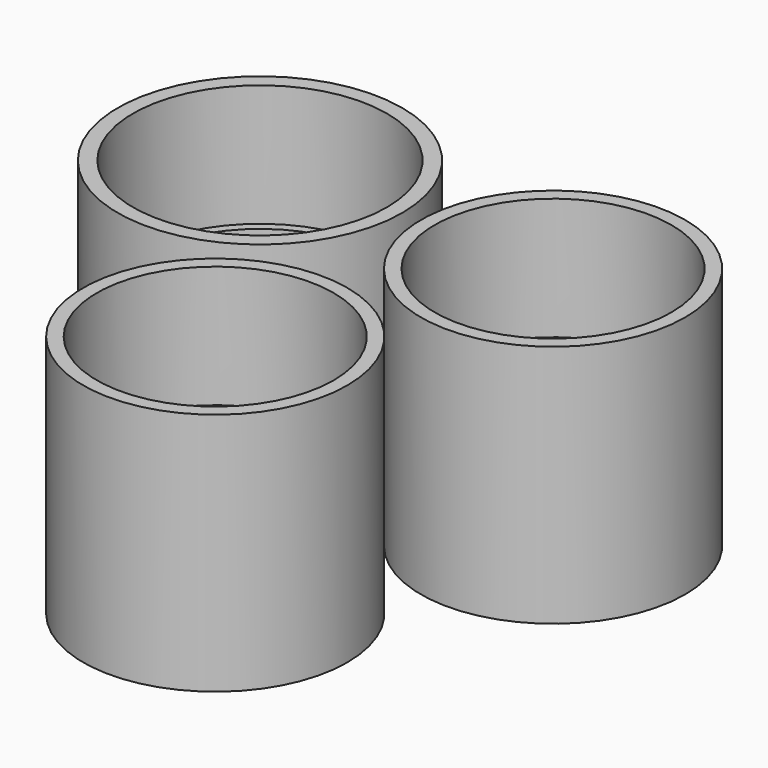
from build123d import *

# Parameters (mm, degrees)
F0_R     = 35
F0_R_2   = 32.5
F1_DEPTH = 60
F2_R     = 29.125
F2_R_2   = 21.125
F2_R_3   = 19.375
F3_DEPTH = 60
F5_R     = 31.25
F5_R_2   = 29.125
F6_DEPTH = 30


with BuildPart() as f1:
    # F0 (on Top) → F1 (new body)
    with BuildSketch(Plane.XY):
        Circle(F0_R)
        with Locations((72.103776, 0)):
            Circle(F0_R_2)
        with Locations((39.091412, -62.615223)):
            Circle(F0_R_2)
    extrude(amount=F1_DEPTH)

    # F2 (on Top) → F3 (cut, through all)
    with BuildSketch(Plane.XY):
        Circle(F2_R)
        with Locations((72.103776, 0)):
            Circle(F2_R_2)
        with Locations((39.091412, -62.615223)):
            Circle(F2_R_3)
    extrude(amount=F3_DEPTH, mode=Mode.SUBTRACT)

    # F5 (on offset) → F6 (cut)
    with BuildSketch(Plane.XY.offset(60)):
        Circle(F5_R)
        with Locations((72.103776, 0)):
            Circle(F5_R_2)
        with Locations((39.091412, -62.615223)):
            Circle(F5_R_2)
    extrude(amount=-F6_DEPTH, mode=Mode.SUBTRACT)


solid = f1.part
